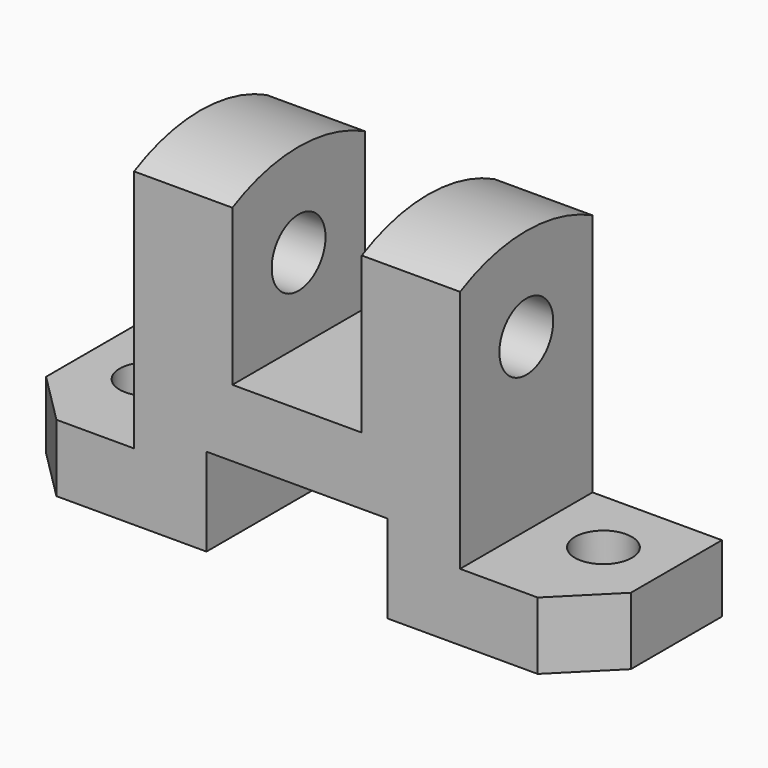
from build123d import *

# Parameters (mm, degrees)
F0_R      = 6.5
F1_DEPTH  = 113
F2_W      = 34.951055
F2_H      = 51
F3_DEPTH  = 25
F4_W      = 97.290264
F4_H      = 51
F5_DEPTH  = 25
F7_R      = 5.5
F8_DEPTH  = 25
F6_W      = 35
F6_H      = 17
F6_W_2    = 25
F6_H_2    = 34.3365
F9_DEPTH  = 32.001
F11_DEPTH = 25
F13_DEPTH = 25


with BuildPart() as f1:
    # F0 (on Right) → F1 (new body)
    with BuildSketch(Plane.YZ):
        with BuildLine():
            ThreePointArc((0, 60.128765), (-16, 64), (-32, 60.128765))
            Line((-32, 60.128765), (-32, 0))
            Line((-32, 0), (0, 0))
            Line((0, 0), (0, 60.128765))
        make_face()
        with Locations((-16, 46)):
            Circle(F0_R, mode=Mode.SUBTRACT)
    extrude(amount=F1_DEPTH)

    # F2 (on face) → F3 (cut)
    with BuildSketch(Plane.YZ.offset(113)):
        with Locations((-15.524668, 38.5)):
            Rectangle(F2_W, F2_H)
    extrude(amount=-F3_DEPTH, mode=Mode.SUBTRACT)

    # F4 (on face) → F5 (cut)
    with BuildSketch(Plane(origin=(0, 0, 0), x_dir=(0, -1, 0), z_dir=(-1, 0, 0))):
        with Locations((16.608413, 38.5)):
            Rectangle(F4_W, F4_H)
    extrude(amount=-F5_DEPTH, mode=Mode.SUBTRACT)

    # F7 (on face) → F8 (cut)
    with BuildSketch(Plane.XY.offset(13)):
        with Locations((100.5, -13)):
            Circle(F7_R)
        with Locations((12.5, -13)):
            Circle(F7_R)
    extrude(amount=-F8_DEPTH, mode=Mode.SUBTRACT)

    # F6 (on face) → F9 (cut, through all)
    with BuildSketch(Plane.XZ.offset(32)):
        with Locations((56.5, 8.5)):
            Rectangle(F6_W, F6_H)
        with Locations((56.5, 47.16825)):
            Rectangle(F6_W_2, F6_H_2)
    extrude(amount=-F9_DEPTH, mode=Mode.SUBTRACT)

    # F10 (on face) → F11 (cut)
    with BuildSketch(Plane.XY.offset(13)):
        Polygon((0, -22), (0, -32), (10, -32), align=None)
    extrude(amount=-F11_DEPTH, mode=Mode.SUBTRACT)

    # F12 (on face) → F13 (cut)
    with BuildSketch(Plane.XY.offset(13)):
        Polygon((103, -32), (113, -32), (113, -22), align=None)
    extrude(amount=-F13_DEPTH, mode=Mode.SUBTRACT)


solid = f1.part
